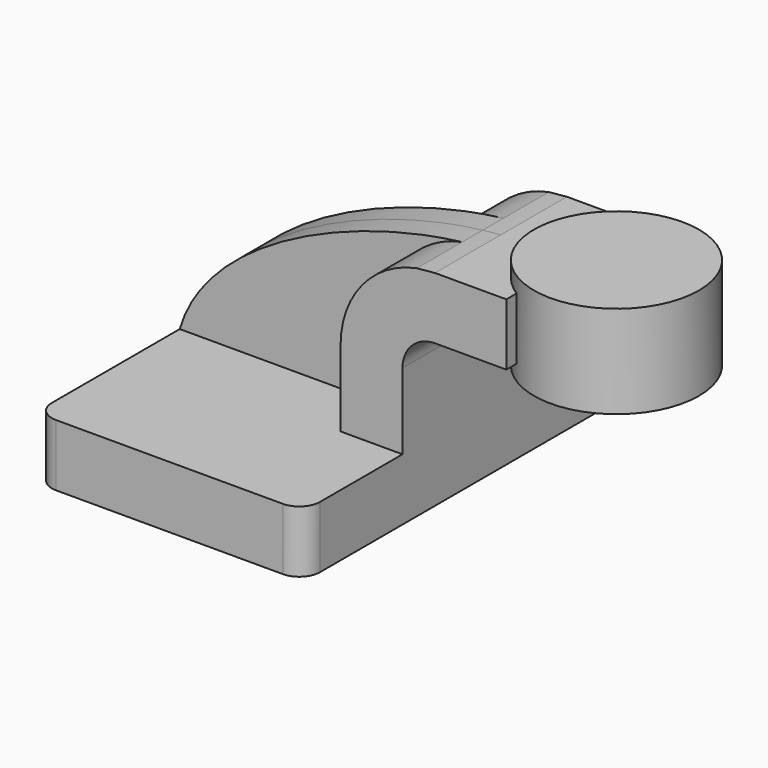
from build123d import *

# Parameters (mm, degrees)
F1_DEPTH = 63.5
F0_W     = 11.81127
F0_H     = 19.05
F2_DEPTH = 25.4
F3_DEPTH = 7.9375
F0_W_2   = 25.4
F0_H_2   = 28.575
F5_R     = 6.35


with BuildPart() as f1:
    # F0 (on Front) → F1 (new body, symmetric)
    with BuildSketch(Plane.XZ):
        Polygon((-41.275, 9.525), (-41.275, -9.525), (41.275, -9.525), (41.275, 9.525), (22.225, 9.525), align=None)
    extrude(amount=F1_DEPTH, both=True)

    # F0 (on Front) → F2 (join, symmetric)
    with BuildSketch(Plane.XZ):
        with BuildLine():
            Line((22.225, 9.525), (41.275, 9.525))
            Line((41.275, 9.525), (41.275, 32.900145))
            ThreePointArc((41.275, 32.900145), (44.196626, 39.953574), (51.250055, 42.8752))
            Line((51.250055, 42.8752), (61.429398, 42.8752))
            Line((61.429398, 42.8752), (61.429398, 61.9252))
            Line((61.429398, 61.9252), (51.250055, 61.9252))
            add(Edge.make_bspline(
                [(45.673429, 61.38444), (47.564535, 61.610059), (49.425943, 61.790599), (51.250055, 61.9252)],
                knots=[100.789596, 100.789596, 100.789596, 100.789596, 106.332811, 106.332811, 106.332811, 106.332811], degree=3))
            ThreePointArc((45.673429, 61.38444), (28.841176, 51.347258), (22.225, 32.900145))
            Line((22.225, 32.900145), (22.225, 9.525))
        make_face()
        with Locations((67.335033, 52.4002)):
            Rectangle(F0_W, F0_H)
    extrude(amount=F2_DEPTH, both=True)

    # F0 (on Front) → F3 (join, symmetric)
    with BuildSketch(Plane.XZ):
        with BuildLine():
            add(Edge.make_bspline(
                [(-41.275, 9.525), (-32.915342, 38.276129), (11.288356, 57.28211), (45.673429, 61.38444)],
                knots=[0, 0, 0, 0, 100.789596, 100.789596, 100.789596, 100.789596], degree=3))
            Line((-41.275, 9.525), (22.225, 9.525))
            Line((22.225, 9.525), (22.225, 32.900145))
            ThreePointArc((22.225, 32.900145), (28.841176, 51.347258), (45.673429, 61.38444))
        make_face()
    extrude(amount=F3_DEPTH, both=True)

    # F5
    f5_edges = [f1.edges().sort_by_distance(p)[0] for p in [
        (-41.275, -63.5, 0),
        (-41.275, 63.5, 0),
        (41.275, -63.5, 0),
        (41.275, 63.5, 0),
    ]]
    fillet(f5_edges, radius=F5_R)


with BuildPart() as f4:
    # F0 (on Front) → F4 (revolve)
    with BuildSketch(Plane.XZ):
        with Locations((99.529398, 52.3875)):
            Rectangle(F0_W_2, F0_H_2)
    revolve(axis=Axis((86.829398, 0, 52.3875), (0, 0, -1)))


solid = Compound([f1.part, f4.part])
